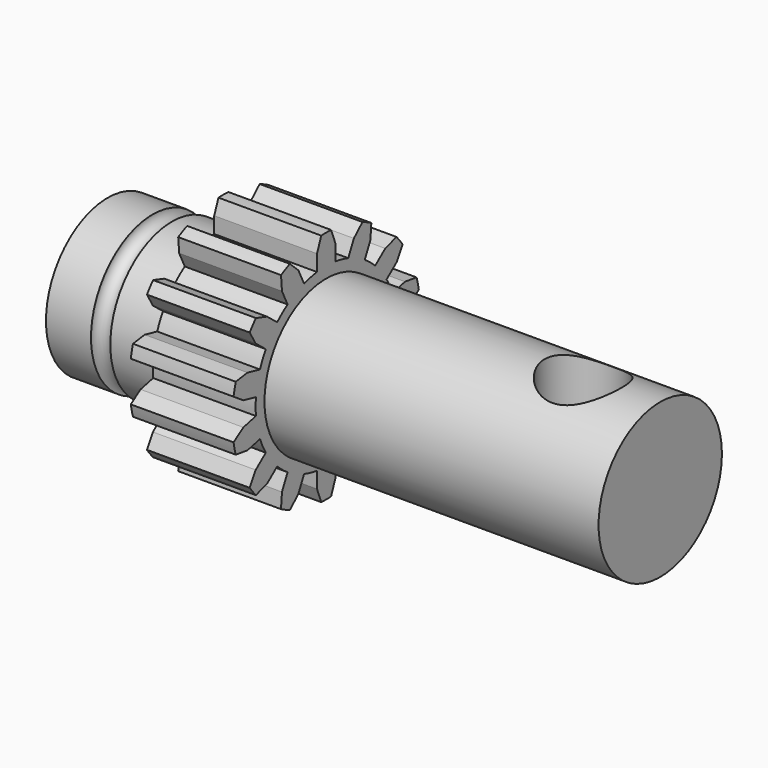
from build123d import *

# Parameters (mm, degrees)
F0_R     = 9.525
F1_DEPTH = 14.3002
F3_DEPTH = 12.7
F4_R     = 9.525
F5_DEPTH = 41.275
F6_R     = 1.1938
F8_R     = 4.7625
F9_DEPTH = 12.7


with BuildPart() as f1:
    # F0 (on Right) → F1 (new body)
    with BuildSketch(Plane.YZ):
        Circle(F0_R)
    extrude(amount=-F1_DEPTH)

    # F2 (on face) → F3 (join)
    with BuildSketch(Plane.YZ):
        with BuildLine():
            Line((1.413542, 12.798762), (0.762, 14.496086))
            ThreePointArc((0.762, 14.496086), (0, 14.5161), (-0.762, 14.496086))
            Line((-0.762, 14.496086), (-1.413542, 12.798762))
            Line((-1.413542, 12.798762), (-1.413542, 10.804526))
            ThreePointArc((-1.413542, 10.804526), (-2.424722, 10.623399), (-3.414351, 10.347855))
            Line((-3.414351, 10.347855), (-4.279618, 12.144599))
            Line((-4.279618, 12.144599), (-5.603078, 13.391142))
            ThreePointArc((-5.603078, 13.391142), (-6.2983, 13.078554), (-6.976154, 12.729903))
            Line((-6.976154, 12.729903), (-6.826732, 10.917973))
            Line((-6.826732, 10.917973), (-5.961465, 9.121229))
            ThreePointArc((-5.961465, 9.121229), (-6.793919, 8.519305), (-7.56599, 7.841663))
            Line((-7.56599, 7.841663), (-9.125146, 9.085049))
            Line((-9.125146, 9.085049), (-10.858397, 9.633918))
            ThreePointArc((-10.858397, 9.633918), (-11.349144, 9.05064), (-11.808596, 8.442406))
            Line((-11.808596, 8.442406), (-10.887804, 6.874746))
            Line((-10.887804, 6.874746), (-9.328648, 5.631361))
            ThreePointArc((-9.328648, 5.631361), (-9.817497, 4.727858), (-10.219092, 3.782335))
            Line((-10.219092, 3.782335), (-12.163328, 4.226094))
            Line((-12.163328, 4.226094), (-13.963078, 3.968578))
            ThreePointArc((-13.963078, 3.968578), (-14.152151, 3.230136), (-14.3022, 2.482788))
            Line((-14.3022, 2.482788), (-12.792413, 1.469891))
            Line((-12.792413, 1.469891), (-10.848177, 1.026132))
            ThreePointArc((-10.848177, 1.026132), (-10.8966, 0), (-10.848177, -1.026132))
            Line((-10.848177, -1.026132), (-12.792413, -1.469891))
            Line((-12.792413, -1.469891), (-14.3022, -2.482788))
            ThreePointArc((-14.3022, -2.482788), (-14.152151, -3.230136), (-13.963078, -3.968578))
            Line((-13.963078, -3.968578), (-12.163328, -4.226094))
            Line((-12.163328, -4.226094), (-10.219092, -3.782335))
            ThreePointArc((-10.219092, -3.782335), (-9.817497, -4.727858), (-9.328648, -5.631361))
            Line((-9.328648, -5.631361), (-10.887804, -6.874746))
            Line((-10.887804, -6.874746), (-11.808596, -8.442406))
            ThreePointArc((-11.808596, -8.442406), (-11.349144, -9.05064), (-10.858397, -9.633918))
            Line((-10.858397, -9.633918), (-9.125146, -9.085049))
            Line((-9.125146, -9.085049), (-7.56599, -7.841663))
            ThreePointArc((-7.56599, -7.841663), (-6.793919, -8.519305), (-5.961465, -9.121229))
            Line((-5.961465, -9.121229), (-6.826732, -10.917973))
            Line((-6.826732, -10.917973), (-6.976154, -12.729903))
            ThreePointArc((-6.976154, -12.729903), (-6.2983, -13.078554), (-5.603078, -13.391142))
            Line((-5.603078, -13.391142), (-4.279618, -12.144599))
            Line((-4.279618, -12.144599), (-3.414351, -10.347855))
            ThreePointArc((-3.414351, -10.347855), (-2.424722, -10.623399), (-1.413542, -10.804526))
            Line((-1.413542, -10.804526), (-1.413542, -12.798762))
            Line((-1.413542, -12.798762), (-0.762, -14.496086))
            ThreePointArc((-0.762, -14.496086), (0, -14.5161), (0.762, -14.496086))
            Line((0.762, -14.496086), (1.413542, -12.798762))
            Line((1.413542, -12.798762), (1.413542, -10.804526))
            ThreePointArc((1.413542, -10.804526), (2.424722, -10.623399), (3.414351, -10.347855))
            Line((3.414351, -10.347855), (4.279618, -12.144599))
            Line((4.279618, -12.144599), (5.603078, -13.391142))
            ThreePointArc((5.603078, -13.391142), (6.2983, -13.078554), (6.976154, -12.729903))
            Line((6.976154, -12.729903), (6.826732, -10.917973))
            Line((6.826732, -10.917973), (5.961465, -9.121229))
            ThreePointArc((5.961465, -9.121229), (6.793919, -8.519305), (7.56599, -7.841663))
            Line((7.56599, -7.841663), (9.125146, -9.085049))
            Line((9.125146, -9.085049), (10.858397, -9.633918))
            ThreePointArc((10.858397, -9.633918), (11.349144, -9.05064), (11.808596, -8.442406))
            Line((11.808596, -8.442406), (10.887804, -6.874746))
            Line((10.887804, -6.874746), (9.328648, -5.631361))
            ThreePointArc((9.328648, -5.631361), (9.817497, -4.727858), (10.219092, -3.782335))
            Line((10.219092, -3.782335), (12.163328, -4.226094))
            Line((12.163328, -4.226094), (13.963078, -3.968578))
            ThreePointArc((13.963078, -3.968578), (14.152151, -3.230136), (14.3022, -2.482788))
            Line((14.3022, -2.482788), (12.792413, -1.469891))
            Line((12.792413, -1.469891), (10.848177, -1.026132))
            ThreePointArc((10.848177, -1.026132), (10.8966, 0), (10.848177, 1.026132))
            Line((10.848177, 1.026132), (12.792413, 1.469891))
            Line((12.792413, 1.469891), (14.3022, 2.482788))
            ThreePointArc((14.3022, 2.482788), (14.152151, 3.230136), (13.963078, 3.968578))
            Line((13.963078, 3.968578), (12.163328, 4.226094))
            Line((12.163328, 4.226094), (10.219092, 3.782335))
            ThreePointArc((10.219092, 3.782335), (9.817497, 4.727858), (9.328648, 5.631361))
            Line((9.328648, 5.631361), (10.887804, 6.874746))
            Line((10.887804, 6.874746), (11.808596, 8.442406))
            ThreePointArc((11.808596, 8.442406), (11.349144, 9.05064), (10.858397, 9.633918))
            Line((10.858397, 9.633918), (9.125146, 9.085049))
            Line((9.125146, 9.085049), (7.56599, 7.841663))
            ThreePointArc((7.56599, 7.841663), (6.793919, 8.519305), (5.961465, 9.121229))
            Line((5.961465, 9.121229), (6.826732, 10.917973))
            Line((6.826732, 10.917973), (6.976154, 12.729903))
            ThreePointArc((6.976154, 12.729903), (6.2983, 13.078554), (5.603078, 13.391142))
            Line((5.603078, 13.391142), (4.279618, 12.144599))
            Line((4.279618, 12.144599), (3.414351, 10.347855))
            ThreePointArc((3.414351, 10.347855), (2.424722, 10.623399), (1.413542, 10.804526))
            Line((1.413542, 10.804526), (1.413542, 12.798762))
        make_face()
    extrude(amount=F3_DEPTH)

    # F4 (on face) → F5 (join)
    with BuildSketch(Plane.YZ.offset(12.7)):
        Circle(F4_R)
    extrude(amount=F5_DEPTH)

    # F6 (on Top) → F7 (revolve, cut)
    with BuildSketch(Plane.XY):
        with Locations((-7.5438, 9.525)):
            Circle(F6_R)
    revolve(axis=Axis((-10.466062, 0, 0), (-1, 0, 0)), mode=Mode.SUBTRACT)

    # F8 (on Top) → F9 (cut, symmetric)
    with BuildSketch(Plane.XY):
        with Locations((44.45, 0)):
            Circle(F8_R)
    extrude(amount=F9_DEPTH, both=True, mode=Mode.SUBTRACT)


solid = f1.part
